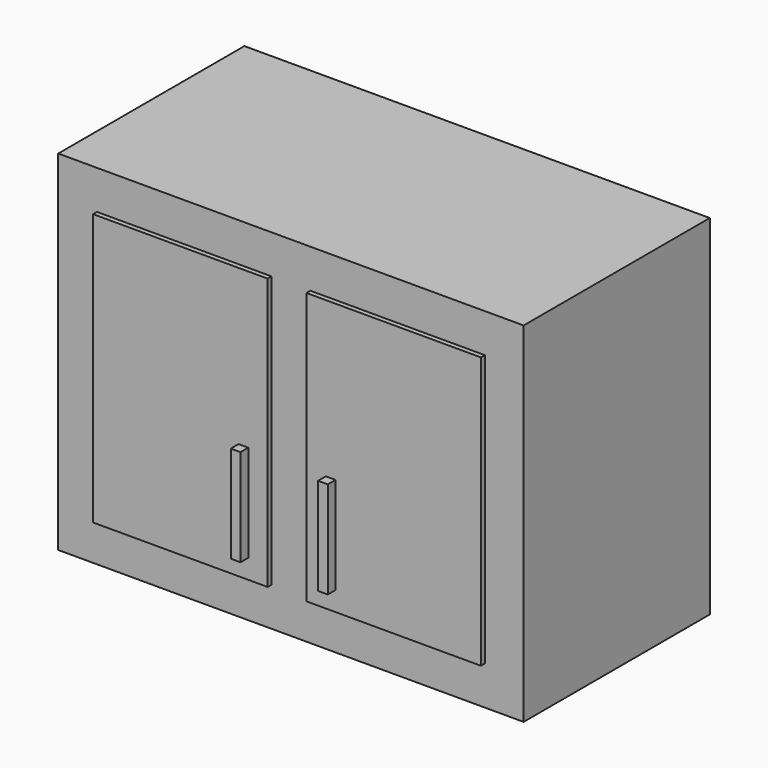
from build123d import *

# Parameters (mm, degrees)
F0_W     = 609.6
F0_H     = 457.2
F1_DEPTH = 304.8
F2_W     = 228.6
F2_H     = 355.6
F3_DEPTH = 6.35
F4_W     = 12.7
F4_H     = 127
F5_DEPTH = 12.7


with BuildPart() as f1:
    # F0 (on Front) → F1 (new body)
    with BuildSketch(Plane.XZ):
        with Locations((-27.527251, 34.139451)):
            Rectangle(F0_W, F0_H)
    extrude(amount=F1_DEPTH)

    # F2 (on face) → F3 (join)
    with BuildSketch(Plane.XZ.offset(304.8)):
        with Locations((-167.227251, 34.139451)):
            Rectangle(F2_W, F2_H)
        with Locations((112.172749, 34.139451)):
            Rectangle(F2_W, F2_H)
    extrude(amount=F3_DEPTH)

    # F4 (on face) → F5 (join)
    with BuildSketch(Plane.XZ.offset(311.15)):
        with Locations((-84.677251, -54.760549)):
            Rectangle(F4_W, F4_H)
        with Locations((29.622749, -54.760549)):
            Rectangle(F4_W, F4_H)
    extrude(amount=F5_DEPTH)


solid = f1.part
